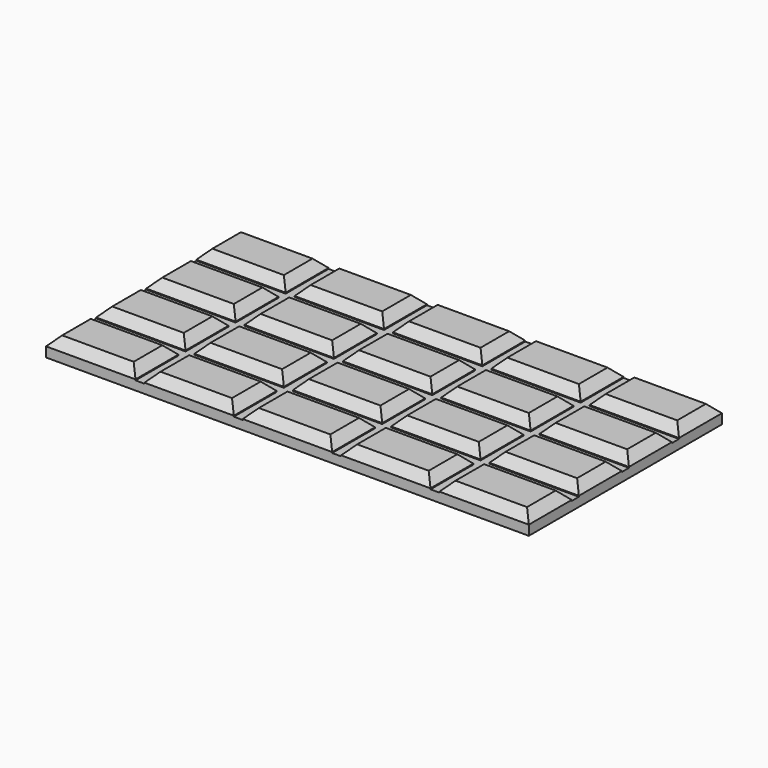
from build123d import *

# Parameters (mm, degrees)
BOX001_W      = 10
BOX001_H      = 6
BOX001_DEPTH  = 1.1
CHAMFER_SIZE  = 1
ARRAY_X_COUNT = 5
ARRAY_X_PITCH = 11
ARRAY_Y_COUNT = 4
ARRAY_Y_PITCH = 7
BOX_W         = 54
BOX_H         = 27
BOX_DEPTH     = 1


with BuildPart() as array:
    # Box001 → Box001 (new body)
    with BuildSketch(Plane.XY.offset(1)):
        with Locations((5, 3)):
            Rectangle(BOX001_W, BOX001_H)
    extrude(amount=BOX001_DEPTH)

    # Chamfer
    chamfer_edges = [array.edges().sort_by_distance(p)[0] for p in [
        (0, 3, 2.1),
        (10, 3, 2.1),
        (5, 0, 2.1),
        (5, 6, 2.1),
    ]]
    chamfer(chamfer_edges, length=CHAMFER_SIZE)

    # Array X: Array ×5


with BuildPart() as array_1:
    add(array.part)
    with Locations(*[(i * ARRAY_X_PITCH, 0, 0) for i in range(1, ARRAY_X_COUNT)]):
        add(array.part)

    # Array Y: Array ×4


with BuildPart() as array_2:
    add(array_1.part)
    with Locations(*[(0, i * ARRAY_Y_PITCH, 0) for i in range(1, ARRAY_Y_COUNT)]):
        add(array_1.part)


with BuildPart() as obj1:
    # Box → Box (new body)
    with BuildSketch(Plane.XY):
        with Locations((27, 13.5)):
            Rectangle(BOX_W, BOX_H)
    extrude(amount=BOX_DEPTH)

    # Fusion: union Array
    add(array_2.part)


solid = obj1.part
